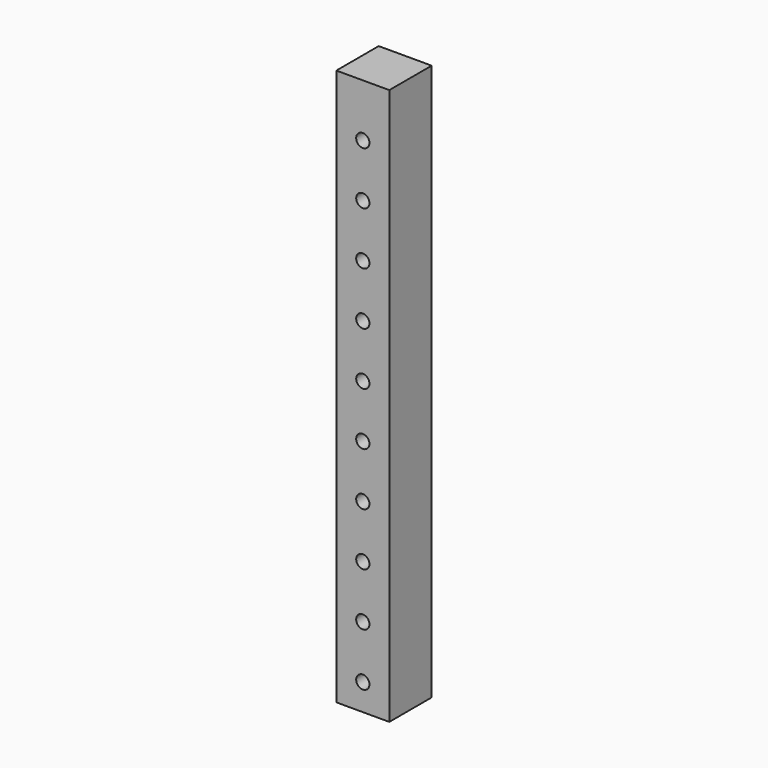
from build123d import *

# Parameters (mm, degrees)
F0_W     = 25.4
F0_H     = 266.7
F0_R     = 3.175
F1_DEPTH = 25.4


with BuildPart() as f1:
    # F0 (on Front) → F1 (new body)
    with BuildSketch(Plane.XZ):
        with Locations((-11.956722, 92.386803)):
            Rectangle(F0_W, F0_H)
        with Locations((-11.956722, -28.263197)):
            Circle(F0_R, mode=Mode.SUBTRACT)
        with Locations((-11.956722, -2.863197)):
            Circle(F0_R, mode=Mode.SUBTRACT)
        with Locations((-11.956722, 22.536803)):
            Circle(F0_R, mode=Mode.SUBTRACT)
        with Locations((-11.956722, 47.936803)):
            Circle(F0_R, mode=Mode.SUBTRACT)
        with Locations((-11.956722, 73.336803)):
            Circle(F0_R, mode=Mode.SUBTRACT)
        with Locations((-11.956722, 98.736803)):
            Circle(F0_R, mode=Mode.SUBTRACT)
        with Locations((-11.956722, 124.136803)):
            Circle(F0_R, mode=Mode.SUBTRACT)
        with Locations((-11.956722, 149.536803)):
            Circle(F0_R, mode=Mode.SUBTRACT)
        with Locations((-11.956722, 174.936803)):
            Circle(F0_R, mode=Mode.SUBTRACT)
        with Locations((-11.956722, 200.336803)):
            Circle(F0_R, mode=Mode.SUBTRACT)
    extrude(amount=F1_DEPTH)


solid = f1.part
